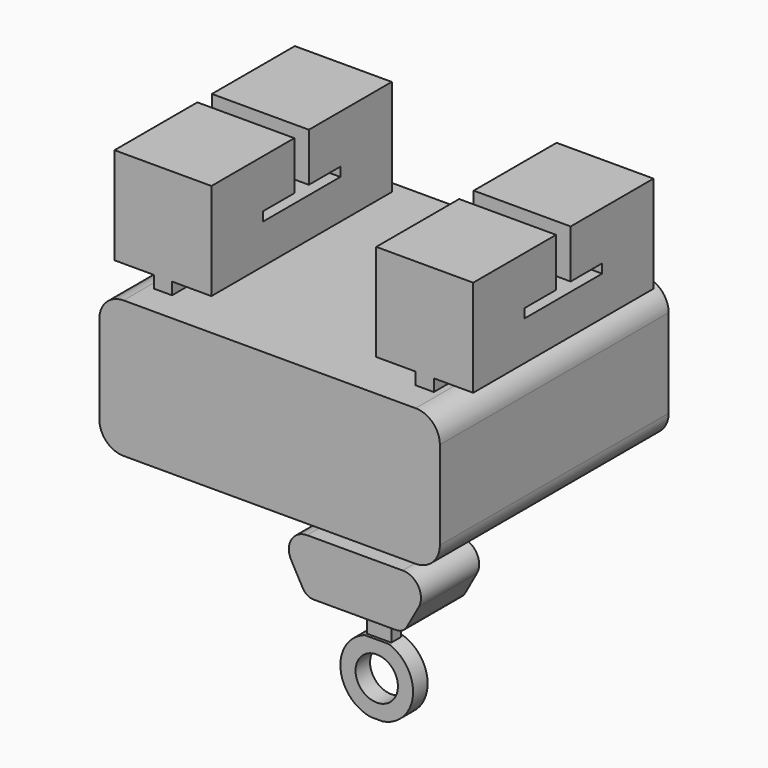
from build123d import *

# Parameters (mm, degrees)
F1_DEPTH      = 599.44
F2_W          = 127
F2_H          = 457.2
F2_R          = 1.5875
F3_DEPTH      = 751.841
F3_DEPTH_BACK = 751.841


with BuildPart() as f1:
    # F0 (on Front) → F1 (new body, symmetric)
    with BuildSketch(Plane.XZ):
        with BuildLine():
            Line((751.84, 203.2), (345.44, 203.2))
            Line((345.44, 203.2), (345.44, -203.2))
            Line((345.44, -203.2), (510.54, -203.2))
            Line((510.54, -203.2), (510.54, -254))
            Line((510.54, -254), (0, -254))
            Line((0, -254), (-510.54, -254))
            Line((-510.54, -254), (-510.54, -203.2))
            Line((-510.54, -203.2), (-345.44, -203.2))
            Line((-345.44, -203.2), (-345.44, 203.2))
            Line((-345.44, 203.2), (-751.84, 203.2))
            Line((-751.84, 203.2), (-751.84, -203.2))
            Line((-751.84, -203.2), (-586.74, -203.2))
            Line((-586.74, -203.2), (-586.74, -254))
            Line((-586.74, -254), (-612.14, -254))
            ThreePointArc((-612.14, -254), (-683.9820489686, -283.7579510314), (-713.74, -355.6))
            Line((-713.74, -355.6), (-713.74, -726.44))
            ThreePointArc((-713.74, -726.44), (-683.9820489686, -798.2820489686), (-612.14, -828.04))
            Line((-612.14, -828.04), (-50.8, -828.04))
            Line((-50.8, -828.04), (-50.8, -1168.4))
            Line((-50.8, -1168.4), (-200.6969981396, -1168.4))
            ThreePointArc((-200.6969981396, -1168.4), (-266.3715614854, -1205.9568669833), (-267.3077825801, -1281.6059913558))
            Line((-267.3077825801, -1281.6059913558), (-217.7162994978, -1370.8706609039))
            ThreePointArc((-217.7162994978, -1370.8706609039), (-199.0711985486, -1389.9830422305), (-173.3091098709, -1397))
            Line((-173.3091098709, -1397), (-50.8, -1397))
            Line((-50.8, -1397), (-50.8, -1534.8474755722))
            ThreePointArc((-50.8, -1534.8474755722), (-151.8342242526, -1691.6513427765), (-25.4, -1828.8))
            Line((-25.4, -1828.8), (25.4, -1828.8))
            ThreePointArc((25.4, -1828.8), (151.8342242526, -1691.6513427765), (50.8, -1534.8474755722))
            Line((50.8, -1534.8474755722), (50.8, -1397))
            Line((50.8, -1397), (173.3091098709, -1397))
            ThreePointArc((173.3091098709, -1397), (199.0711985486, -1389.9830422305), (217.7162994978, -1370.8706609039))
            Line((217.7162994978, -1370.8706609039), (267.3077825801, -1281.6059913558))
            ThreePointArc((267.3077825801, -1281.6059913558), (266.3715614854, -1205.9568669833), (200.6969981396, -1168.4))
            Line((200.6969981396, -1168.4), (50.8, -1168.4))
            Line((50.8, -1168.4), (50.8, -828.04))
            Line((50.8, -828.04), (612.14, -828.04))
            ThreePointArc((612.14, -828.04), (683.9820489686, -798.2820489686), (713.74, -726.44))
            Line((713.74, -726.44), (713.74, -355.6))
            ThreePointArc((713.74, -355.6), (683.9820489686, -283.7579510314), (612.14, -254))
            Line((612.14, -254), (586.74, -254))
            Line((586.74, -254), (586.74, -203.2))
            Line((586.74, -203.2), (751.84, -203.2))
            Line((751.84, -203.2), (751.84, 203.2))
        make_face()
        with BuildLine():
            ThreePointArc((0, -1589.6315735093), (88.9, -1678.5315735093), (0, -1767.4315735093))
            ThreePointArc((0, -1767.4315735093), (-88.9, -1678.5315735093), (0, -1589.6315735093))
        make_face(mode=Mode.SUBTRACT)
    extrude(amount=F1_DEPTH, both=True)

    # F2 (on Right) → F3 (cut, two sides)
    with BuildSketch(Plane.YZ) as f3_sk:
        with Locations((535.94, -25.4)):
            Rectangle(F2_W, F2_H)
        Polygon((599.44, -1828.8), (599.44, -828.04), (152.4, -828.04), (76.2, -828.04), (76.2, -1168.4), (152.4, -1168.4), (152.4, -1397), (25.4, -1397), (25.4, -1534.8474755722), (38.1, -1534.8474755722), (38.1, -1828.8), align=None)
        Polygon((203.2, 0), (38.1, 0), (38.1, 203.2), (0, 203.2), (-38.1, 203.2), (-38.1, 0), (-203.2, 0), (-203.2, -38.1), (0, -38.1), (203.2, -38.1), align=None)
        Polygon((-76.2, -828.04), (-152.4, -828.04), (-599.44, -828.04), (-599.44, -1828.8), (-38.1, -1828.8), (-38.1, -1534.8474755722), (-25.4, -1534.8474755722), (-25.4, -1397), (-152.4, -1397), (-152.4, -1168.4), (-76.2, -1168.4), align=None)
        with Locations((-535.94, -25.4)):
            Rectangle(F2_W, F2_H)
        with Locations((0, -1803.4)):
            Circle(F2_R)
    extrude(amount=-F3_DEPTH, mode=Mode.SUBTRACT)
    extrude(f3_sk.sketch, amount=F3_DEPTH_BACK, mode=Mode.SUBTRACT)


solid = f1.part
